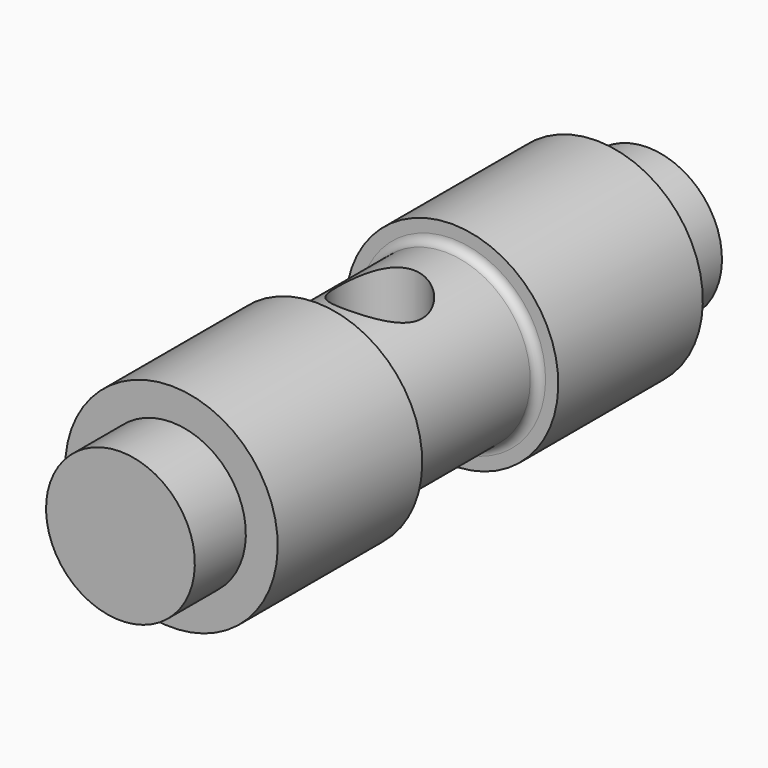
from build123d import *

# Parameters (mm, degrees)
F3_R     = 4
F4_DEPTH = 18.001


with BuildPart() as f1:
    # F0 (on Right) → F1 (revolve)
    with BuildSketch(Plane.YZ):
        with BuildLine():
            Line((0, 7), (0, 0))
            Line((0, 0), (62, 0))
            Line((62, 0), (62, 7))
            Line((62, 7), (56, 7))
            Line((56, 7), (56, 10))
            Line((56, 10), (39, 10))
            Line((39, 10), (39, 8.8))
            ThreePointArc((39, 8.8), (38.765685, 8.234315), (38.2, 8))
            Line((38.2, 8), (23.8, 8))
            ThreePointArc((23.8, 8), (23.234315, 8.234315), (23, 8.8))
            Line((23, 8.8), (23, 10))
            Line((23, 10), (6, 10))
            Line((6, 10), (6, 7))
            Line((6, 7), (0, 7))
        make_face()
    revolve(axis=Axis((0, 31, 0), (0, -1, 0)))

    # F3 (on offset) → F4 (cut, through all)
    with BuildSketch(Plane.XY.offset(8)):
        with Locations((0, 30.5)):
            Circle(F3_R)
    extrude(amount=-F4_DEPTH, mode=Mode.SUBTRACT)


solid = f1.part
